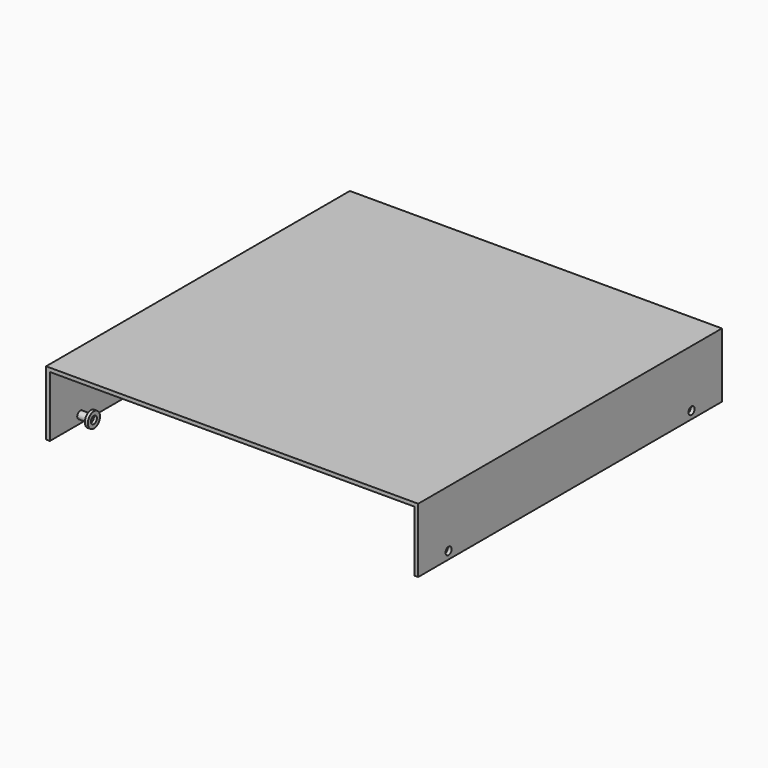
from build123d import *

# Parameters (mm, degrees)
F1_DEPTH      = 500
F2_R          = 5
F3_DEPTH      = 490.001
F4_R          = 4.9
F5_DEPTH      = 14
F5_DEPTH_BACK = 2.5
F6_R          = 10
F6_R_2        = 4.9
F7_DEPTH      = 4
F8_R          = 10
F8_R_2        = 4.9
F9_DEPTH      = 4


with BuildPart() as f1:
    # F0 (on Front) → F1 (new body)
    with BuildSketch(Plane.XZ):
        Polygon((-245, 170), (-245, 85), (-240, 85), (-240, 165), (240, 165), (240, 85), (245, 85), (245, 170), align=None)
    extrude(amount=F1_DEPTH)

    # F2 (on face) → F3 (cut, through all)
    with BuildSketch(Plane(origin=(-245, 0, 0), x_dir=(0, -1, 0), z_dir=(-1, 0, 0))):
        with Locations((50, 95)):
            Circle(F2_R)
        with Locations((450, 95)):
            Circle(F2_R)
    extrude(amount=-F3_DEPTH, mode=Mode.SUBTRACT)


with BuildPart() as f5:
    # F4 (on face) → F5 (new body, two sides)
    with BuildSketch(Plane.YZ.offset(-240)) as f5_sk:
        with Locations((-450, 95)):
            Circle(F4_R)
        with Locations((-50, 95)):
            Circle(F4_R)
    extrude(amount=F5_DEPTH)
    extrude(f5_sk.sketch, amount=-F5_DEPTH_BACK)

    # F6 (on face) → F7 (join)
    with BuildSketch(Plane.YZ.offset(-226)):
        with Locations((-50, 95)):
            Circle(F6_R)
        with Locations((-50, 95)):
            Circle(F6_R_2, mode=Mode.SUBTRACT)
    extrude(amount=F7_DEPTH)

    # F8 (on face) → F9 (join)
    with BuildSketch(Plane.YZ.offset(-226)):
        with Locations((-450, 95)):
            Circle(F8_R)
        with Locations((-450, 95)):
            Circle(F8_R_2, mode=Mode.SUBTRACT)
    extrude(amount=F9_DEPTH)


solid = Compound([f1.part, f5.part])
